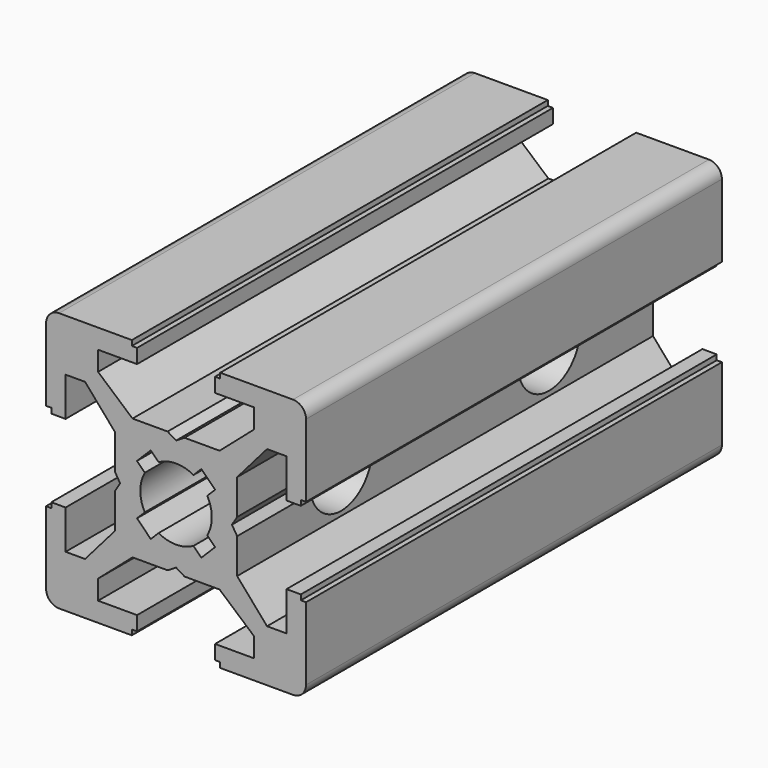
from build123d import *

# Parameters (mm, degrees)
PAD_DEPTH          = 40
POCKET_DEPTH       = 40
POLARPATTERN_COUNT = 4
POCKET001_DEPTH    = 40
SKETCH003_R        = 3
POCKET002_DEPTH    = 20
SKETCH004_R        = 5
POCKET003_DEPTH    = 3
POCKET004_DEPTH    = 3


with BuildPart() as pocket002:
    # Sketch → Pad (new body)
    with BuildSketch(Plane.XZ):
        with BuildLine():
            Line((-9, 10), (9, 10))
            ThreePointArc((10, 9), (9.707107, 9.707107), (9, 10))
            Line((10, 9), (10, -9))
            ThreePointArc((9, -10), (9.707107, -9.707107), (10, -9))
            Line((9, -10), (-9, -10))
            ThreePointArc((-10, -9), (-9.707107, -9.707107), (-9, -10))
            Line((-10, -9), (-10, 9))
            ThreePointArc((-9, 10), (-9.707107, 9.707107), (-10, 9))
        make_face()
    extrude(amount=PAD_DEPTH)

    # Sketch001 (on Face10 of Pad) → Pocket (cut)
    with BuildSketch(Plane.XZ.offset(40)):
        Polygon((-3.4, 10), (-3.4, 9.6), (-3, 9.6), (-3, 8.5), (-6, 8.5), (-6, 7), (-3.35, 4.7), (-0.65, 4.7), (0, 4.3), (0.65, 4.7), (3.35, 4.7), (6, 7), (6, 8.5), (3, 8.5), (3, 9.6), (3.4, 9.6), (3.4, 10), align=None)
    pocket = extrude(amount=-POCKET_DEPTH, mode=Mode.SUBTRACT)

    # PolarPattern: Pocket ×4 about axis
    polarpattern_axis = Axis((0, -40, 0), (0, -1, 0))
    for i in range(1, POLARPATTERN_COUNT):
        add(pocket.rotate(polarpattern_axis, i * 360 / POLARPATTERN_COUNT), mode=Mode.SUBTRACT)

    # Sketch002 (on Face4 of PolarPattern) → Pocket001 (cut)
    with BuildSketch(Plane.XZ.offset(40)):
        with BuildLine():
            ThreePointArc((1.340499, 2.401159), (0, 2.75), (-1.340499, 2.401159))
            Line((-1.944544, 3.005204), (-1.340499, 2.401159))
            Line((-3.005204, 1.944544), (-1.944544, 3.005204))
            Line((-2.401159, 1.340499), (-3.005204, 1.944544))
            ThreePointArc((-2.401159, 1.340499), (-2.75, 0), (-2.401159, -1.340499))
            Line((-3.005204, -1.944544), (-2.401159, -1.340499))
            Line((-1.944544, -3.005204), (-3.005204, -1.944544))
            Line((-1.340499, -2.401159), (-1.944544, -3.005204))
            ThreePointArc((-1.340499, -2.401159), (0, -2.75), (1.340499, -2.401159))
            Line((1.944544, -3.005204), (1.340499, -2.401159))
            Line((3.005204, -1.944544), (1.944544, -3.005204))
            Line((2.401159, -1.340499), (3.005204, -1.944544))
            ThreePointArc((2.401159, -1.340499), (2.75, 0), (2.401159, 1.340499))
            Line((2.401159, 1.340499), (3.005204, 1.944544))
            Line((3.005204, 1.944544), (1.944544, 3.005204))
            Line((1.944544, 3.005204), (1.340499, 2.401159))
        make_face()
    extrude(amount=-POCKET001_DEPTH, mode=Mode.SUBTRACT)

    # Sketch003 (on Face44 of Pocket001) → Pocket002 (cut)
    with BuildSketch(Plane(origin=(10, 0, 0), x_dir=(0, 0, 1), z_dir=(1, 0, 0))):
        with Locations((0, 10)):
            Circle(SKETCH003_R)
        with Locations((0, 30)):
            Circle(SKETCH003_R)
    extrude(amount=-POCKET002_DEPTH, mode=Mode.SUBTRACT)


with BuildPart() as pocket003:
    # Pocket003 base: copy of Pocket002
    add(pocket002.part)

    # Sketch004 (on Face37 of Pocket002) → Pocket003 (cut)
    with BuildSketch(Plane(origin=(-10, 0, 0), x_dir=(0, 0, -1), z_dir=(-1, 0, 0))):
        with Locations((0, 10)):
            Circle(SKETCH004_R)
        with Locations((0, 30)):
            Circle(SKETCH004_R)
    extrude(amount=-POCKET003_DEPTH, mode=Mode.SUBTRACT)


with BuildPart() as pocket004:
    # Pocket004 base: copy of Pocket002
    add(pocket002.part)

    # Sketch004 (on Face37 of Pocket002) → Pocket004 (cut)
    with BuildSketch(Plane(origin=(-10, 0, 0), x_dir=(0, 0, -1), z_dir=(-1, 0, 0))):
        with Locations((0, 10)):
            Circle(SKETCH004_R)
        with Locations((0, 30)):
            Circle(SKETCH004_R)
    extrude(amount=-POCKET004_DEPTH, mode=Mode.SUBTRACT)


solid = Compound([pocket003.part, pocket004.part])
